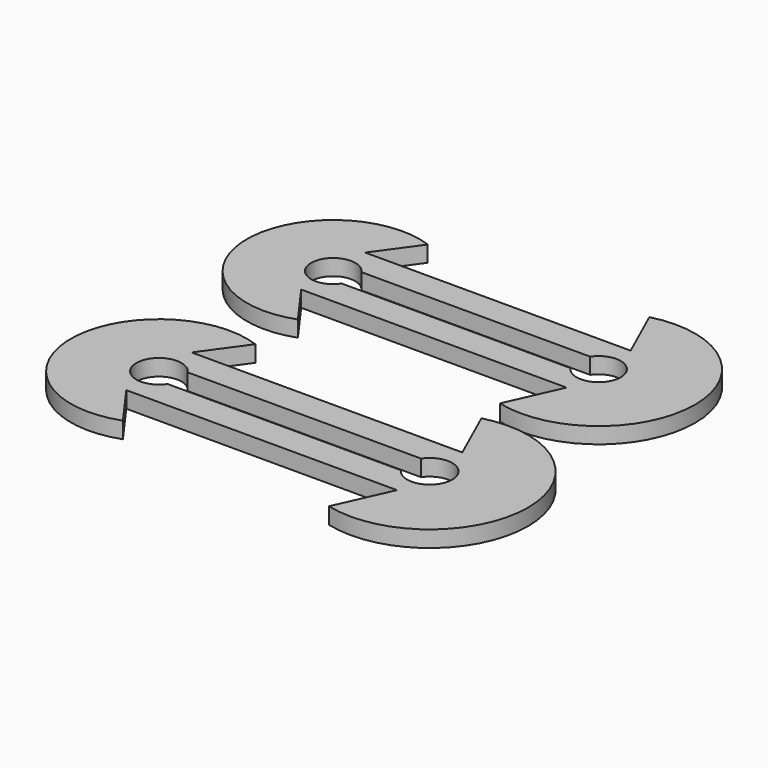
from build123d import *

# Parameters (mm, degrees)
F1_DEPTH = 2
F2_D     = 5.5
F3_SCALE = 1.02


with BuildPart() as f1:
    # F0 (on Top) → F1 (new body)
    with BuildSketch(Plane.XY):
        with BuildLine():
            Line((0, 4.9798060209), (3.6845984513, 10.0988234093))
            ThreePointArc((3.6845984513, 10.0988234093), (-10.75, 0), (3.6845984513, -10.0988234093))
            Line((3.6845984513, -10.0988234093), (0, -4.9798060209))
            Line((0, -4.9798060209), (33.0190947038, -4.9798060209))
            Line((33.0190947038, -4.9798060209), (30.0358447042, -11.6232619965))
            ThreePointArc((30.0358447042, -11.6232619965), (45.0190947038, 0), (30.0358447042, 11.6232619965))
            Line((30.0358447042, 11.6232619965), (33.0190947038, 4.9798060209))
            Line((33.0190947038, 4.9798060209), (0, 4.9798060209))
        make_face()
        Polygon((0, -1.535414136), (0, 0), (0, 1.535414136), (33.0303162336, 1.535414136), (33.0303162336, 0), (33.0303162336, -1.535414136), align=None, mode=Mode.SUBTRACT)
    extrude(amount=F1_DEPTH)

    # F2 (through all)
    with Locations(Plane(origin=(0, 0, 0), x_dir=(1, 0, 0), z_dir=(0, 0, -1))):
        with Locations((0, 0), (33.0303162336, 0)):
            Hole(F2_D / 2)


with BuildPart() as f3_1:
    # F3: copy of F1
    add(f1.part.scale(F3_SCALE).moved(Location((0, 0.0995961204, 0))))


with BuildPart() as f3_1_1:
    # F4: moved
    add(f3_1.part.moved(Location((0, -27.2, 0))))


solid = Compound([f1.part, f3_1_1.part])
